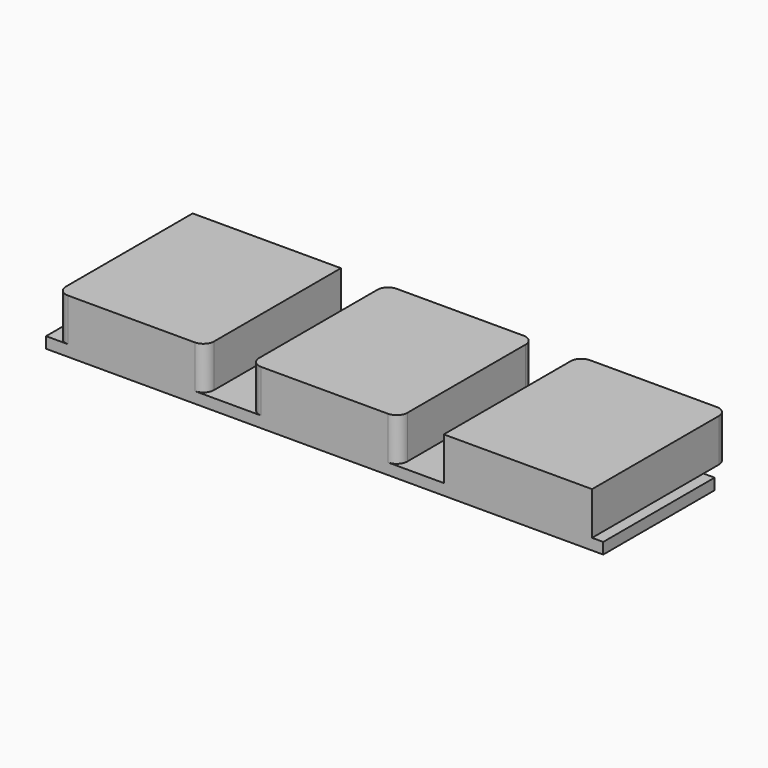
from build123d import *

# Parameters (mm, degrees)
F0_W     = 165.1
F0_H     = 41.275
F1_DEPTH = 3.302
F3_DEPTH = 12.7


with BuildPart() as f1:
    # F0 (on Top) → F1 (new body)
    with BuildSketch(Plane.XY):
        Rectangle(F0_W, F0_H)
    extrude(amount=F1_DEPTH)

    # F2 (on face) → F3 (join)
    with BuildSketch(Plane.XY.offset(3.302)):
        with BuildLine():
            Line((-79.248, 29.5275), (-79.248, 20.6375))
            Line((-79.248, 20.6375), (-79.248, -17.4625))
            ThreePointArc((-79.248, -17.4625), (-78.318064, -19.707564), (-76.073, -20.6375))
            Line((-76.073, -20.6375), (-38.481, -20.6375))
            ThreePointArc((-38.481, -20.6375), (-36.235936, -19.707564), (-35.306, -17.4625))
            Line((-35.306, -17.4625), (-35.306, 20.6375))
            Line((-35.306, 20.6375), (-35.306, 29.5275))
            Line((-35.306, 29.5275), (-79.248, 29.5275))
        make_face()
        with BuildLine():
            Line((35.306, 26.3525), (35.306, 20.6375))
            Line((35.306, 20.6375), (35.306, -20.6375))
            Line((35.306, -20.6375), (79.248, -20.6375))
            Line((79.248, -20.6375), (79.248, 20.6375))
            Line((79.248, 20.6375), (79.248, 26.3525))
            ThreePointArc((79.248, 26.3525), (78.318064, 28.597564), (76.073, 29.5275))
            Line((76.073, 29.5275), (38.481, 29.5275))
            ThreePointArc((38.481, 29.5275), (36.235936, 28.597564), (35.306, 26.3525))
        make_face()
        with BuildLine():
            Line((-21.971, 26.3525), (-21.971, 20.6375))
            Line((-21.971, 20.6375), (-21.971, -17.4625))
            ThreePointArc((-21.971, -17.4625), (-21.041064, -19.707564), (-18.796, -20.6375))
            Line((-18.796, -20.6375), (18.796, -20.6375))
            ThreePointArc((18.796, -20.6375), (21.041064, -19.707564), (21.971, -17.4625))
            Line((21.971, -17.4625), (21.971, 20.6375))
            Line((21.971, 20.6375), (21.971, 26.3525))
            ThreePointArc((21.971, 26.3525), (21.041064, 28.597564), (18.796, 29.5275))
            Line((18.796, 29.5275), (-18.796, 29.5275))
            ThreePointArc((-18.796, 29.5275), (-21.041064, 28.597564), (-21.971, 26.3525))
        make_face()
    extrude(amount=F3_DEPTH)


solid = f1.part
